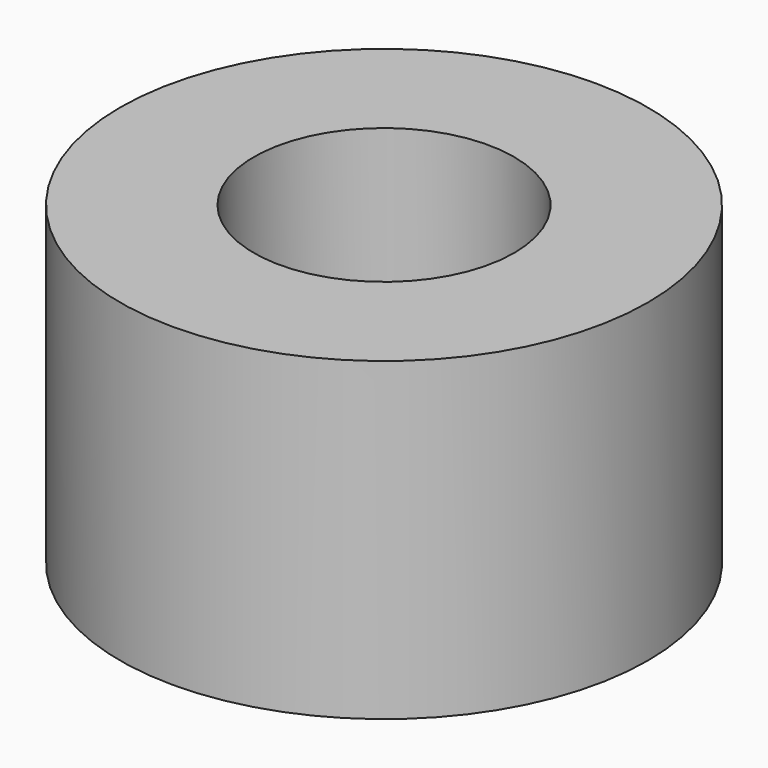
from build123d import *

# Parameters (mm, degrees)
F0_R     = 20.9347
F1_DEPTH = 25
F2_R     = 9.210685
F3_DEPTH = 25
F4_R     = 10.317233
F5_DEPTH = 25


with BuildPart() as f1:
    # F0 (on Top) → F1 (new body)
    with BuildSketch(Plane.XY):
        Circle(F0_R)
    extrude(amount=F1_DEPTH)

    # F2 (on face) → F3 (join)
    with BuildSketch(Plane.XY.offset(25)):
        Circle(F2_R)
    extrude(amount=-F3_DEPTH)

    # F4 (on face) → F5 (cut)
    with BuildSketch(Plane.XY.offset(25)):
        Circle(F4_R)
    extrude(amount=-F5_DEPTH, mode=Mode.SUBTRACT)


solid = f1.part
